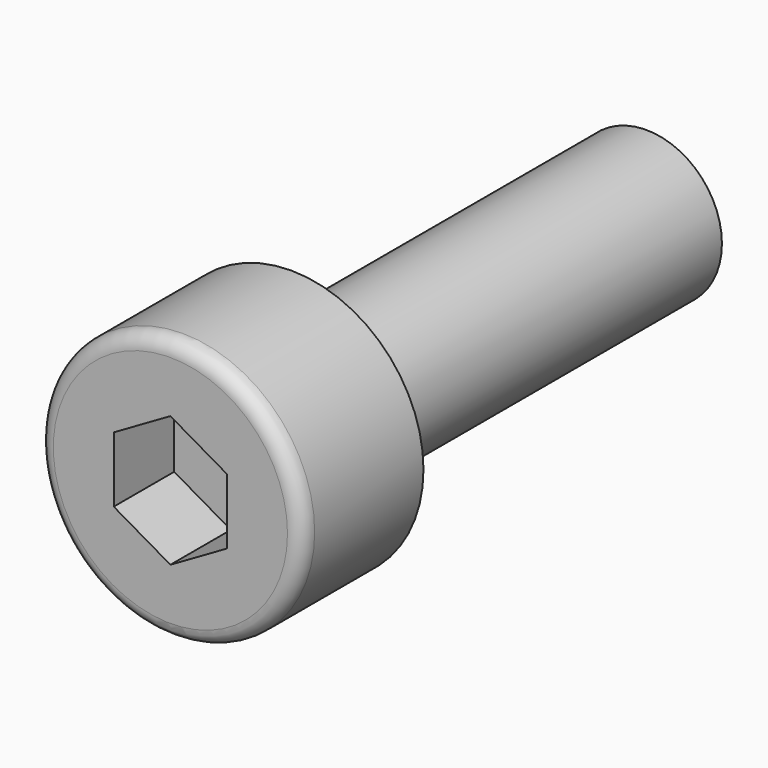
from build123d import *

# Parameters (mm, degrees)
POCKET_DEPTH = 2


with BuildPart() as part:
    # Sketch → Revolution (revolve)
    with BuildSketch(Plane.XY):
        with BuildLine():
            Line((2, 0), (3.5, 0))
            Line((3.5, 0), (3.5, -3.6))
            ThreePointArc((3.1, -4), (3.382843, -3.882843), (3.5, -3.6))
            Line((3.1, -4), (0, -4))
            Line((0, -4), (0, 12))
            Line((0, 12), (1.57, 12))
            Line((1.57, 12), (2, 11.751739))
            Line((2, 11.751739), (2, 0))
        make_face()
    revolve(axis=Axis((0, 0, 0), (0, 1, 0)))

    # Sketch001 → Pocket (cut)
    with BuildSketch(Plane.XZ.offset(4)):
        Polygon((-1.5, 0.866025), (-1.5, -0.866025), (0, -1.732051), (1.5, -0.866025), (1.5, 0.866025), (0, 1.732051), align=None)
    extrude(amount=-POCKET_DEPTH, mode=Mode.SUBTRACT)


solid = part.part
